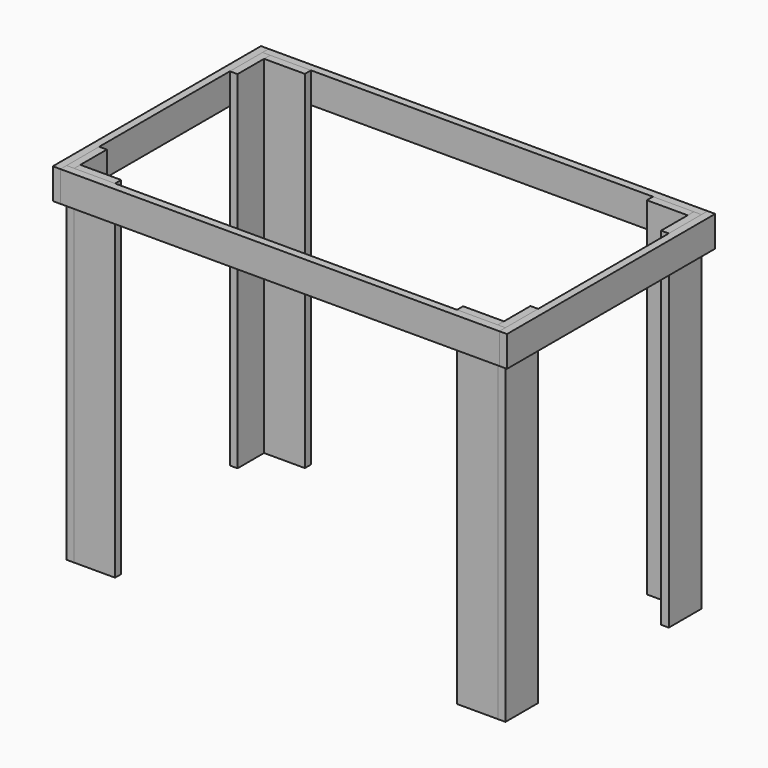
from build123d import *

# Parameters (mm, degrees)
F0_W      = 19.05
F0_H      = 647.7
F1_DEPTH  = 76.2
F3_W      = 1092.2
F3_H      = 19.05
F4_DEPTH  = 76.2
F6_W      = 19.05
F6_H      = 101.6
F7_DEPTH  = 863.6
F12_W     = 101.6
F12_H     = 19.05
F13_DEPTH = 863.6


with BuildPart() as f1:
    # F0 (on Top) → F1 (new body)
    with BuildSketch(Plane.XY):
        with Locations((9.525, 323.85)):
            Rectangle(F0_W, F0_H)
    extrude(amount=F1_DEPTH)


with BuildPart() as f2_1:
    # F2: copy of F1
    add(f1.part.moved(Location((1111.25, 0, 0))))


with BuildPart() as f4:
    # F3 (on Top) → F4 (new body)
    with BuildSketch(Plane.XY):
        with Locations((565.15, 9.525)):
            Rectangle(F3_W, F3_H)
    extrude(amount=F4_DEPTH)


with BuildPart() as f5_1:
    # F5: copy of F4
    add(f4.part.moved(Location((0, 628.65, 0))))


with BuildPart() as f7:
    # F6 (on Top) → F7 (new body)
    with BuildSketch(Plane.XY):
        with Locations((9.525, 50.8)):
            Rectangle(F6_W, F6_H)
    extrude(amount=-F7_DEPTH)


with BuildPart() as f8_1:
    # F8: copy of F7
    add(f7.part.moved(Location((1092.2, 19.05, 76.2))))


with BuildPart() as f7_1:
    # F9: moved
    add(f7.part.moved(Location((19.05, 19.05, 76.2))))


with BuildPart() as f10_1:
    # F10: copy of F8_1
    add(f8_1.part.moved(Location((0, 508, 0))))


with BuildPart() as f11_1:
    # F11: copy of F7
    add(f7_1.part.moved(Location((0, 508, 0))))


with BuildPart() as f13:
    # F12 (on Top) → F13 (new body)
    with BuildSketch(Plane.XY):
        with Locations((50.8, 9.525)):
            Rectangle(F12_W, F12_H)
    extrude(amount=-F13_DEPTH)


with BuildPart() as f13_1:
    # F14: moved
    add(f13.part.moved(Location((38.1, 19.05, 76.2))))


with BuildPart() as f15_1:
    # F15: copy of F13
    add(f13_1.part.moved(Location((0, 590.55, 0))))


with BuildPart() as f16_1:
    # F16: copy of F13
    add(f13_1.part.moved(Location((952.5, 0, 0))))


with BuildPart() as f17_1:
    # F17: copy of F15_1
    add(f15_1.part)


with BuildPart() as f18_1:
    # F18: copy of F16_1
    add(f16_1.part.moved(Location((0, 590.55, 0))))


solid = Compound([f1.part, f2_1.part, f4.part, f5_1.part, f8_1.part, f7_1.part, f10_1.part, f11_1.part, f13_1.part, f15_1.part, f16_1.part, f17_1.part, f18_1.part])
